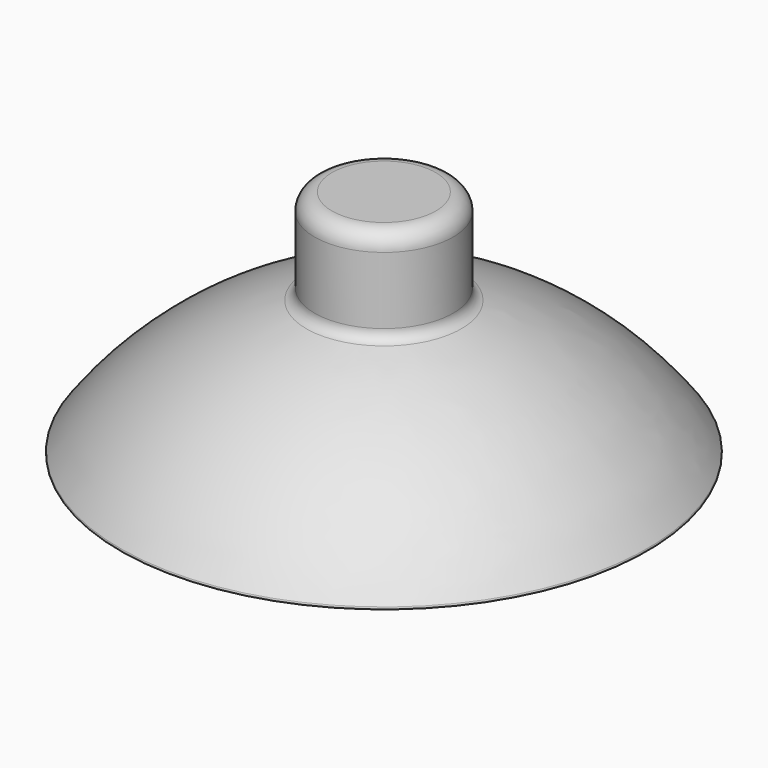
from build123d import *


with BuildPart() as f1:
    # F0 (on Front) → F1 (revolve)
    with BuildSketch(Plane.XZ):
        with BuildLine():
            ThreePointArc((-12, 25.386858), (-12.392731, 24.196612), (-13.416685, 23.473812))
            ThreePointArc((-13.416685, 23.473812), (-31.414476, 14.606603), (-45.658011, 0.476153))
            ThreePointArc((-45.658011, 0.476153), (-45.682424, 0.163702), (-45.415174, 0))
            Line((-45.415174, 0), (-41.959013, 0))
            ThreePointArc((-41.959013, 0), (-41.100932, 0.193429), (-40.40883, 0.736303))
            ThreePointArc((-40.40883, 0.736303), (-26.890706, 13.12818), (-10.395123, 21.140297))
            ThreePointArc((-10.395123, 21.140297), (-9.386037, 21.865482), (-9, 23.046635))
            Line((-9, 23.046635), (-9, 26))
            Line((-9, 26), (-12, 26))
            Line((-12, 26), (-12, 25.386858))
        make_face()
        with BuildLine():
            Line((-12, 37), (-12, 26))
            Line((-12, 26), (-9, 26))
            Line((-9, 26), (-9, 36))
            ThreePointArc((-9, 36), (-8.707107, 36.707107), (-8, 37))
            Line((-8, 37), (0, 37))
            Line((0, 37), (0, 40))
            Line((0, 40), (-9, 40))
            ThreePointArc((-9, 40), (-11.12132, 39.12132), (-12, 37))
        make_face()
    revolve(axis=Axis((0, 0, 24.75), (0, 0, 1)))


solid = f1.part
